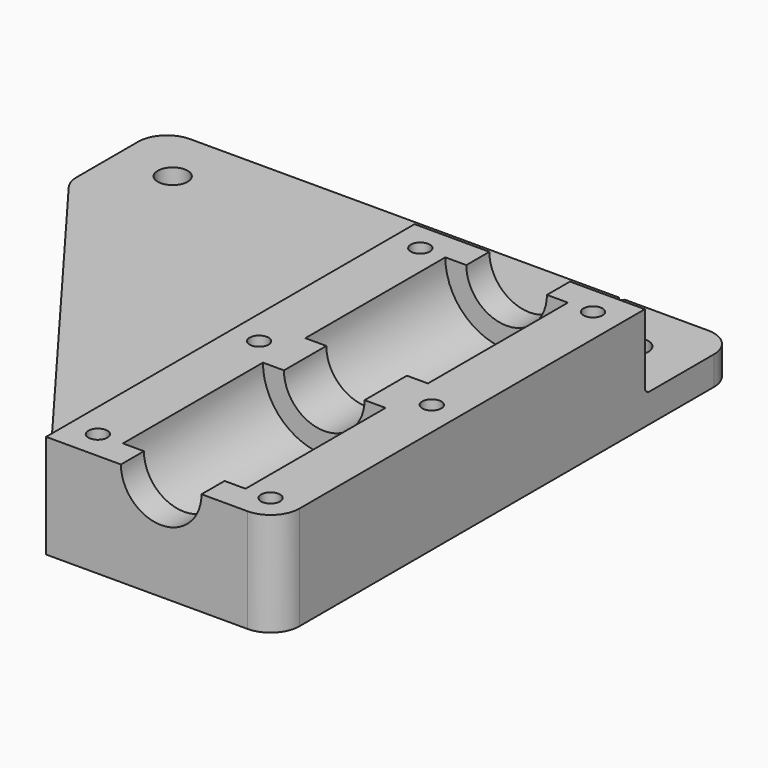
from build123d import *

# Parameters (mm, degrees)
PAD_DEPTH       = 80
PAD_DEPTH_BACK  = 20
SKETCH001_R     = 2.6
SKETCH001_R_2   = 1.65
SKETCH001_R_3   = 0.5
POCKET_DEPTH    = 18.001
SKETCH002_W     = 66.71416
SKETCH002_H     = 42.248775
POCKET001_DEPTH = 13
SKETCH003_R     = 10.65
POCKET002_DEPTH = 30.4
SKETCH004_R     = 10.65
POCKET003_DEPTH = 30.4
POCKET004_DEPTH = 5
FILLET_R        = 5
FILLET001_R     = 1


with BuildPart() as part:
    # Sketch → Pad (new body, two sides)
    with BuildSketch(Plane.XZ) as pad_sk:
        with BuildLine():
            Line((-80, -18), (-80, -13))
            Line((-80, -13), (-20, -13))
            Line((-20, -13), (-20, 0))
            Line((-7, 0), (-20, 0))
            ThreePointArc((-7, 0), (0, -7), (7, 0))
            Line((7, 0), (20, 0))
            Line((20, 0), (20, -18))
            Line((20, -18), (-80, -18))
        make_face()
    extrude(amount=PAD_DEPTH)
    extrude(pad_sk.sketch, amount=-PAD_DEPTH_BACK)

    # Sketch001 → Pocket (cut, through all)
    with BuildSketch(Plane.XY):
        with Locations((-70, 10)):
            Circle(SKETCH001_R)
        with Locations((-30, 10)):
            Circle(SKETCH001_R)
        with Locations((10, 10)):
            Circle(SKETCH001_R)
        with Locations((-15, -5)):
            Circle(SKETCH001_R_2)
        with Locations((-15, -40)):
            Circle(SKETCH001_R_2)
        with Locations((-15, -75)):
            Circle(SKETCH001_R_2)
        with Locations((15, -5)):
            Circle(SKETCH001_R_2)
        with Locations((15, -40)):
            Circle(SKETCH001_R_2)
        with Locations((15, -75)):
            Circle(SKETCH001_R_2)
        with Locations((0, 20)):
            Circle(SKETCH001_R_3)
        Polygon((-80, 0), (-80, -80), (-20, -80), align=None)
    extrude(amount=-POCKET_DEPTH, mode=Mode.SUBTRACT)

    # Sketch002 → Pocket001 (cut)
    with BuildSketch(Plane.XY):
        with Locations((0, 21.124387)):
            Rectangle(SKETCH002_W, SKETCH002_H)
    extrude(amount=-POCKET001_DEPTH, mode=Mode.SUBTRACT)

    # Sketch003 (on DatumPlane) → Pocket002 (cut)
    with BuildSketch(Plane.XZ.offset(5)):
        Circle(SKETCH003_R)
    extrude(amount=POCKET002_DEPTH, mode=Mode.SUBTRACT)

    # Sketch004 (on DatumPlane) → Pocket003 (cut)
    with BuildSketch(Plane.XZ.offset(75)):
        Circle(SKETCH004_R)
    extrude(amount=-POCKET003_DEPTH, mode=Mode.SUBTRACT)

    # Sketch005 (on DatumPlane) → Pocket004 (cut)
    with BuildSketch(Plane.XY.offset(-18)):
        Polygon((-12.25, -6.587713), (-12.25, -3.412287), (-15, -1.824574), (-17.75, -3.412287), (-17.75, -6.587713), (-15, -8.175426), align=None)
        Polygon((17.75, -6.587713), (17.75, -3.412287), (15, -1.824574), (12.25, -3.412287), (12.25, -6.587713), (15, -8.175426), align=None)
        Polygon((-12.25, -41.587713), (-12.25, -38.412287), (-15, -36.824574), (-17.75, -38.412287), (-17.75, -41.587713), (-15, -43.175426), align=None)
        Polygon((17.75, -41.587713), (17.75, -38.412287), (15, -36.824574), (12.25, -38.412287), (12.25, -41.587713), (15, -43.175426), align=None)
        Polygon((-12.25, -76.587713), (-12.25, -73.412287), (-15, -71.824574), (-17.75, -73.412287), (-17.75, -76.587713), (-15, -78.175426), align=None)
        Polygon((17.75, -76.587713), (17.75, -73.412287), (15, -71.824574), (12.25, -73.412287), (12.25, -76.587713), (15, -78.175426), align=None)
    extrude(amount=POCKET004_DEPTH, mode=Mode.SUBTRACT)

    # Fillet
    fillet_edges = [part.edges().sort_by_distance(p)[0] for p in [
        (-80, 20, -15.5),
        (-80, 0, -15.5),
        (20, -80, -9),
        (20, 20, -15.5),
    ]]
    fillet(fillet_edges, radius=FILLET_R)

    # Fillet001
    fillet001_edges = [part.edges().sort_by_distance(p)[0] for p in [
        (-20, -40, -13),
        (0, 0, -13),
    ]]
    fillet(fillet001_edges, radius=FILLET001_R)


solid = part.part
